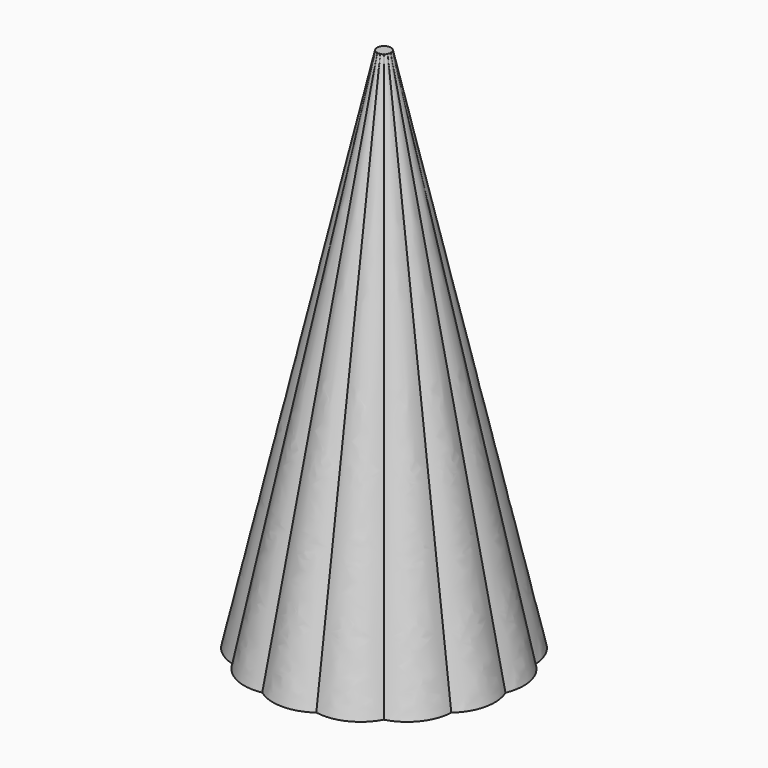
from build123d import *


with BuildPart() as f3:
    # F0 (on Top) → F3 section 0
    with BuildSketch(Plane.XY):
        with BuildLine():
            ThreePointArc((28.067108, 35.195041), (20.458563, 42.482644), (10.017035, 43.887498))
            ThreePointArc((10.017035, 43.887498), (0, 47.152178), (-10.017035, 43.887498))
            ThreePointArc((-10.017035, 43.887498), (-20.458563, 42.482644), (-28.067108, 35.195041))
            ThreePointArc((-28.067108, 35.195041), (-36.865057, 29.398902), (-40.558147, 19.531774))
            ThreePointArc((-40.558147, 19.531774), (-45.969974, 10.492347), (-45.016146, 0))
            ThreePointArc((-45.016146, 0), (-45.969974, -10.492347), (-40.558147, -19.531774))
            ThreePointArc((-40.558147, -19.531774), (-36.865057, -29.398902), (-28.067108, -35.195041))
            ThreePointArc((-28.067108, -35.195041), (-20.458563, -42.482644), (-10.017035, -43.887498))
            ThreePointArc((-10.017035, -43.887498), (0, -47.152178), (10.017035, -43.887498))
            ThreePointArc((10.017035, -43.887498), (20.458563, -42.482644), (28.067108, -35.195041))
            ThreePointArc((28.067108, -35.195041), (36.865057, -29.398902), (40.558147, -19.531774))
            ThreePointArc((40.558147, -19.531774), (45.969974, -10.492347), (45.016146, 0))
            ThreePointArc((45.016146, 0), (45.969974, 10.492347), (40.558147, 19.531774))
            ThreePointArc((40.558147, 19.531774), (36.865057, 29.398902), (28.067108, 35.195041))
        make_face()
    # F2 (on offset) → F3 section 1
    with BuildSketch(Plane.XY.offset(195)):
        with BuildLine():
            ThreePointArc((1.559635, 1.95572), (1.13156, 2.349709), (0.556627, 2.438743))
            ThreePointArc((0.556627, 2.438743), (0, 2.60798), (-0.556627, 2.438743))
            ThreePointArc((-0.556627, 2.438743), (-1.13156, 2.349709), (-1.559635, 1.95572))
            ThreePointArc((-1.559635, 1.95572), (-2.039001, 1.626049), (-2.253737, 1.085343))
            ThreePointArc((-2.253737, 1.085343), (-2.542593, 0.58033), (-2.50146, 0))
            ThreePointArc((-2.50146, 0), (-2.542593, -0.58033), (-2.253737, -1.085343))
            ThreePointArc((-2.253737, -1.085343), (-2.039001, -1.626049), (-1.559635, -1.95572))
            ThreePointArc((-1.559635, -1.95572), (-1.13156, -2.349709), (-0.556627, -2.438743))
            ThreePointArc((-0.556627, -2.438743), (0, -2.60798), (0.556627, -2.438743))
            ThreePointArc((0.556627, -2.438743), (1.13156, -2.349709), (1.559635, -1.95572))
            ThreePointArc((1.559635, -1.95572), (2.039001, -1.626049), (2.253737, -1.085343))
            ThreePointArc((2.253737, -1.085343), (2.542593, -0.58033), (2.50146, 0))
            ThreePointArc((2.50146, 0), (2.542593, 0.58033), (2.253737, 1.085343))
            ThreePointArc((2.253737, 1.085343), (2.039001, 1.626049), (1.559635, 1.95572))
        make_face()
    loft()


solid = f3.part
